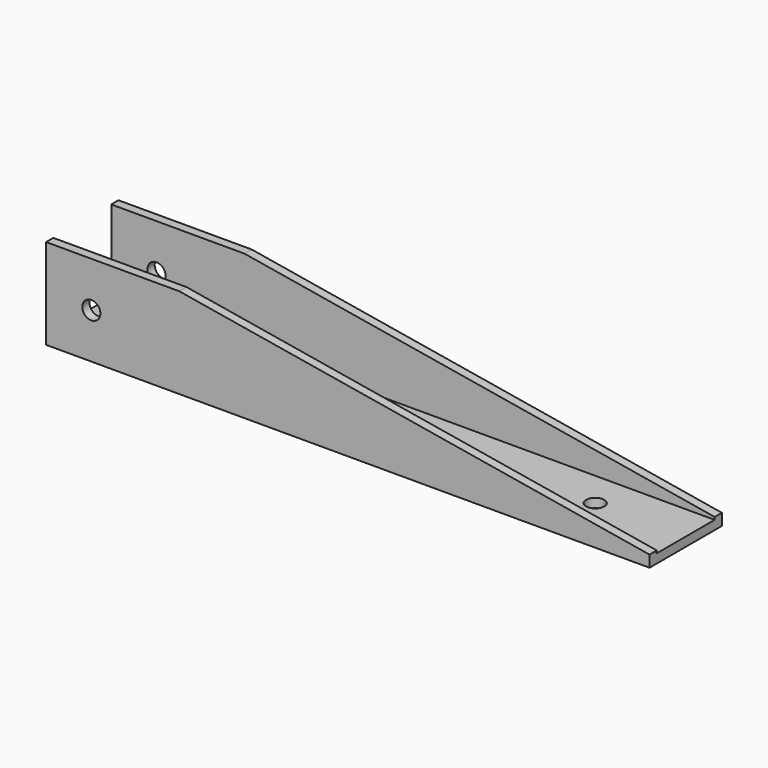
from build123d import *

# Parameters (mm, degrees)
BOX001_W        = 200
BOX001_H        = 30
BOX001_DEPTH    = 30
SKETCH003_W     = 207.751177
SKETCH003_H     = 24
POCKET005_DEPTH = 27
POCKET001_DEPTH = 50
SKETCH006_R     = 3
POCKET003_DEPTH = 50
SKETCH004_R     = 3
POCKET004_DEPTH = 5


with BuildPart() as part:
    # Box001 → Box001 (join)
    with BuildSketch(Plane.XY):
        with Locations((100, 15)):
            Rectangle(BOX001_W, BOX001_H)
    extrude(amount=BOX001_DEPTH)

    # Sketch003 (on Face6 of Box001) → Pocket005 (cut)
    with BuildSketch(Plane.XY.offset(30)):
        with Locations((99.970328, 15)):
            Rectangle(SKETCH003_W, SKETCH003_H)
    extrude(amount=-POCKET005_DEPTH, mode=Mode.SUBTRACT)

    # Sketch005 (on Face9 of Pocket005) → Pocket001 (cut)
    with BuildSketch(Plane.XZ):
        Polygon((20.202248, 34.020094), (202.686674, 3.393335), (216.979173, 34.020094), align=None)
    extrude(amount=-POCKET001_DEPTH, mode=Mode.SUBTRACT)

    # Sketch006 → Pocket003 (cut)
    with BuildSketch(Plane.XZ):
        with Locations((15, 15)):
            Circle(SKETCH006_R)
    extrude(amount=-POCKET003_DEPTH, mode=Mode.SUBTRACT)

    # Sketch004 (on Face4 of Pocket001) → Pocket004 (cut)
    with BuildSketch(Plane.XY.offset(3)):
        with Locations((45, 15)):
            Circle(SKETCH004_R)
        with Locations((170, 15)):
            Circle(SKETCH004_R)
    extrude(amount=-POCKET004_DEPTH, mode=Mode.SUBTRACT)


with BuildPart() as part_1:
    # Body003 placement: moved
    add(part.part.moved(Location((150, 135, 30))))


solid = part_1.part
